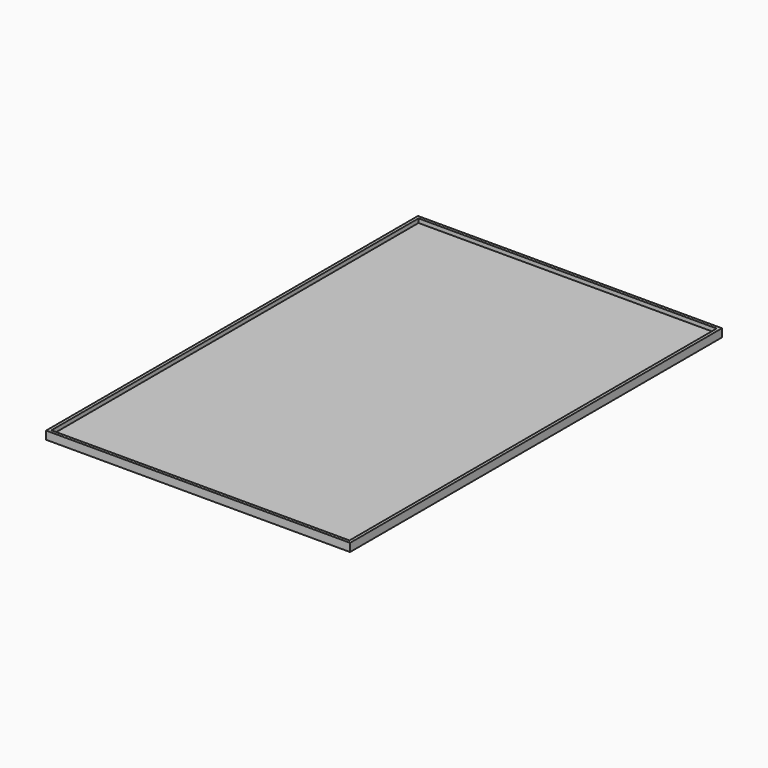
from build123d import *

# Parameters (mm, degrees)
SKETCH_W      = 150.05
SKETCH_H      = 229.425
PAD_DEPTH     = 2
SKETCH001_W   = 150.05
SKETCH001_H   = 229.425
SKETCH001_W_2 = 147.159688
SKETCH001_H_2 = 226.534688
PAD001_DEPTH  = 2


with BuildPart() as part:
    # Sketch → Pad (new body)
    with BuildSketch(Plane.XY):
        Rectangle(SKETCH_W, SKETCH_H)
    extrude(amount=PAD_DEPTH)

    # Sketch001 (on Face6 of Pad) → Pad001 (join)
    with BuildSketch(Plane.XY.offset(2)):
        Rectangle(SKETCH001_W, SKETCH001_H)
        Rectangle(SKETCH001_W_2, SKETCH001_H_2, mode=Mode.SUBTRACT)
    extrude(amount=PAD001_DEPTH)


solid = part.part
